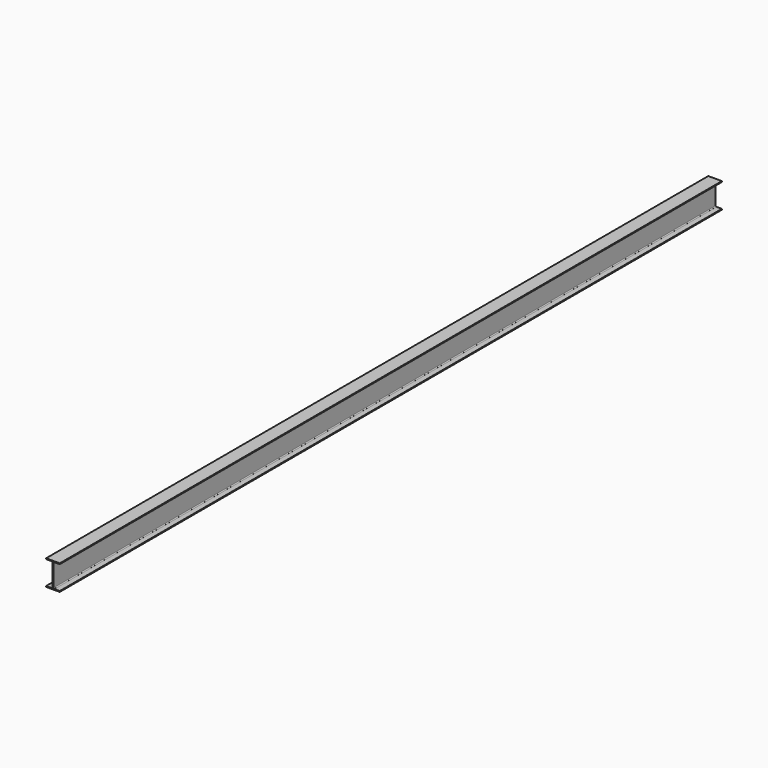
from build123d import *

# Parameters (mm, degrees)
F1_DEPTH      = 5000
F1_DEPTH_BACK = 5000


with BuildPart() as f1:
    # F0 (on Front) → F1 (new body, two sides)
    with BuildSketch(Plane.XZ) as f1_sk:
        with BuildLine():
            Line((83.243568, 138.973925), (-81.756432, 138.973925))
            Line((-81.756432, 138.973925), (-81.756432, 128.973925))
            Line((-81.756432, 128.973925), (-16.756432, 128.973925))
            ThreePointArc((-16.756432, 128.973925), (-9.685364, 126.044992), (-6.756432, 118.973925))
            Line((-6.756432, 118.973925), (-6.756432, -146.026075))
            ThreePointArc((-6.756432, -146.026075), (-9.685364, -153.097143), (-16.756432, -156.026075))
            Line((-16.756432, -156.026075), (-81.756432, -156.026075))
            Line((-81.756432, -156.026075), (-81.756432, -166.026075))
            Line((-81.756432, -166.026075), (83.243568, -166.026075))
            Line((83.243568, -166.026075), (83.243568, -156.026075))
            Line((83.243568, -156.026075), (18.243568, -156.026075))
            ThreePointArc((18.243568, -156.026075), (11.172501, -153.097143), (8.243568, -146.026075))
            Line((8.243568, -146.026075), (8.243568, 118.973925))
            ThreePointArc((8.243568, 118.973925), (11.172501, 126.044992), (18.243568, 128.973925))
            Line((18.243568, 128.973925), (83.243568, 128.973925))
            Line((83.243568, 128.973925), (83.243568, 138.973925))
        make_face()
    extrude(amount=F1_DEPTH)
    extrude(f1_sk.sketch, amount=-F1_DEPTH_BACK)


solid = f1.part
